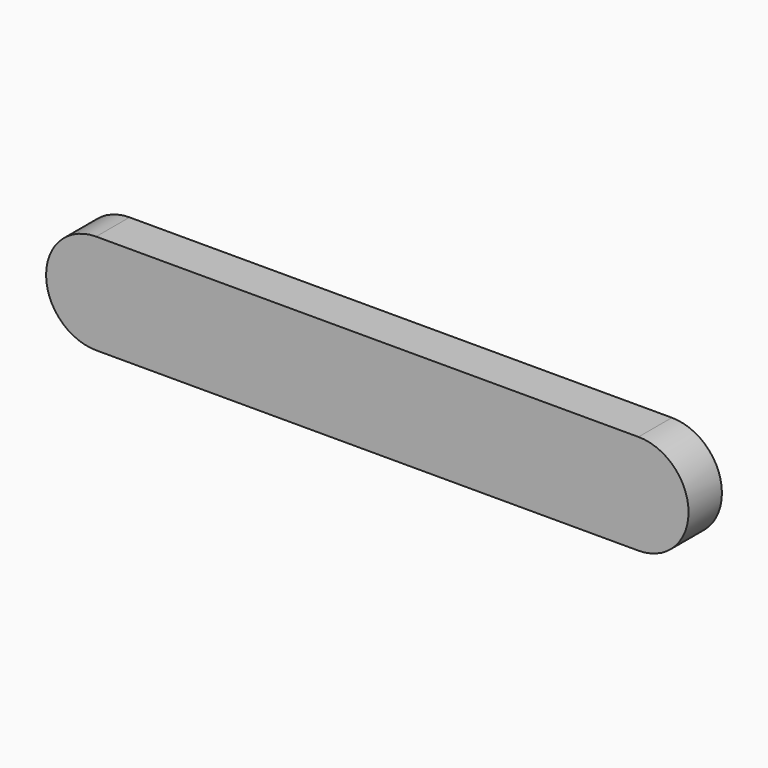
from build123d import *

# Parameters (mm, degrees)
F0_W     = 130
F0_H     = 24
F1_DEPTH = 10


with BuildPart() as f1:
    # F0 (on Front) → F1 (new body)
    with BuildSketch(Plane.XZ):
        Rectangle(F0_W, F0_H)
        with BuildLine():
            Line((65, 12), (65, -12))
            ThreePointArc((65, -12), (77, 0), (65, 12))
        make_face()
        with BuildLine():
            ThreePointArc((-65, 12), (-77, 0), (-65, -12))
            Line((-65, -12), (-65, 12))
        make_face()
    extrude(amount=F1_DEPTH)


solid = f1.part
